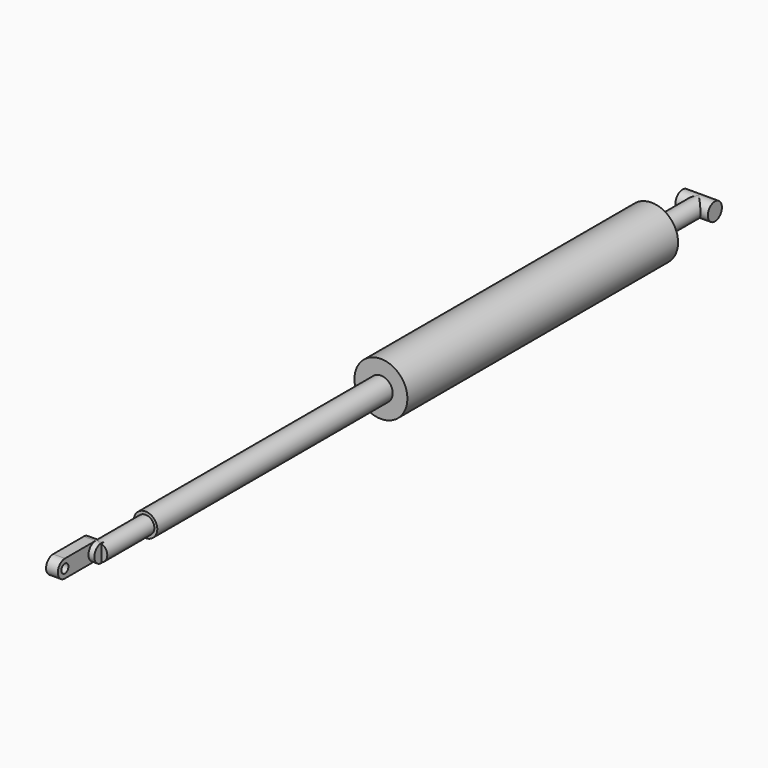
from build123d import *

# Parameters (mm, degrees)
F4_R          = 4
F5_DEPTH      = 100
F4_R_2        = 9
F6_DEPTH      = 115
F7_R          = 4
F7_R_2        = 3
F8_DEPTH      = 2
F9_DEPTH      = 20
F9_DEPTH_BACK = 1
F10_R         = 3
F11_DEPTH     = 20
F12_R         = 3
F13_DEPTH     = 5.5
F14_DEPTH     = 1
F16_DEPTH     = 4


with BuildPart() as f5:
    # F4 (on Front) → F5 (new body)
    with BuildSketch(Plane.XZ):
        Circle(F4_R)
    extrude(amount=F5_DEPTH)

    # F10 (on face) → F11 (join)
    with BuildSketch(Plane.XZ.offset(100)):
        Circle(F10_R)
    extrude(amount=F11_DEPTH)

    # F12 (on Right) → F14 (join, symmetric)
    with BuildSketch(Plane.YZ):
        with Locations((-120, 0)):
            Circle(F12_R)
    extrude(amount=F14_DEPTH, both=True)

    # F15 (on face) → F16 (join)
    with BuildSketch(Plane(origin=(-1, 0, 0), x_dir=(0, -1, 0), z_dir=(-1, 0, 0))):
        with BuildLine():
            Line((120, 2.8284271247), (119, 2.8284271247))
            ThreePointArc((119, 2.8284271247), (117, 0), (119, -2.8284271247))
            Line((119, -2.8284271247), (120, -2.8284271247))
            Line((120, -2.8284271247), (120, 2.8284271247))
        make_face()
        with BuildLine():
            ThreePointArc((120, -3), (122.1213203436, -2.1213203436), (123, 0))
            ThreePointArc((123, 0), (122.1213203436, 2.1213203436), (120, 3))
            ThreePointArc((120, 3), (119.4926940638, 2.956795679), (119, 2.8284271247))
            Line((119, 2.8284271247), (120, 2.8284271247))
            Line((120, 2.8284271247), (120, -2.8284271247))
            Line((120, -2.8284271247), (119, -2.8284271247))
            ThreePointArc((119, -2.8284271247), (119.4926940638, -2.956795679), (120, -3))
        make_face()
        with BuildLine():
            ThreePointArc((120, 3), (122.1213203436, 2.1213203436), (123, 0))
            ThreePointArc((123, 0), (122.1213203436, -2.1213203436), (120, -3))
            Line((120, -3), (133, -3))
            Line((133, -3), (133, -1.5))
            ThreePointArc((133, -1.5), (131.5, 0), (133, 1.5))
            Line((133, 1.5), (133, 3))
            Line((133, 3), (120, 3))
        make_face()
        with BuildLine():
            ThreePointArc((133, -3), (136, 0), (133, 3))
            Line((133, 3), (133, 1.5))
            ThreePointArc((133, 1.5), (134.0606601718, 1.0606601718), (134.5, 0))
            ThreePointArc((134.5, 0), (134.0606601718, -1.0606601718), (133, -1.5))
            Line((133, -1.5), (133, -3))
        make_face()
    extrude(amount=F16_DEPTH)


with BuildPart() as f6:
    # F4 (on Front) → F6 (new body)
    with BuildSketch(Plane.XZ):
        Circle(F4_R_2)
        Circle(F4_R, mode=Mode.SUBTRACT)
    extrude(amount=-F6_DEPTH)

    # F7 (on face) → F8 (join)
    with BuildSketch(Plane(origin=(0, 115, 0), x_dir=(-1, 0, 0), z_dir=(0, 1, 0))):
        Circle(F7_R)
        Circle(F7_R_2, mode=Mode.SUBTRACT)
        Circle(F7_R_2)
    extrude(amount=-F8_DEPTH)

    # F7 (on face) → F9 (join, two sides)
    with BuildSketch(Plane(origin=(0, 115, 0), x_dir=(-1, 0, 0), z_dir=(0, 1, 0))) as f9_sk:
        Circle(F7_R_2)
    extrude(amount=F9_DEPTH)
    extrude(f9_sk.sketch, amount=-F9_DEPTH_BACK)

    # F12 (on Right) → F13 (join, symmetric)
    with BuildSketch(Plane.YZ):
        with Locations((135, 0)):
            Circle(F12_R)
    extrude(amount=F13_DEPTH, both=True)


solid = Compound([f5.part, f6.part])
